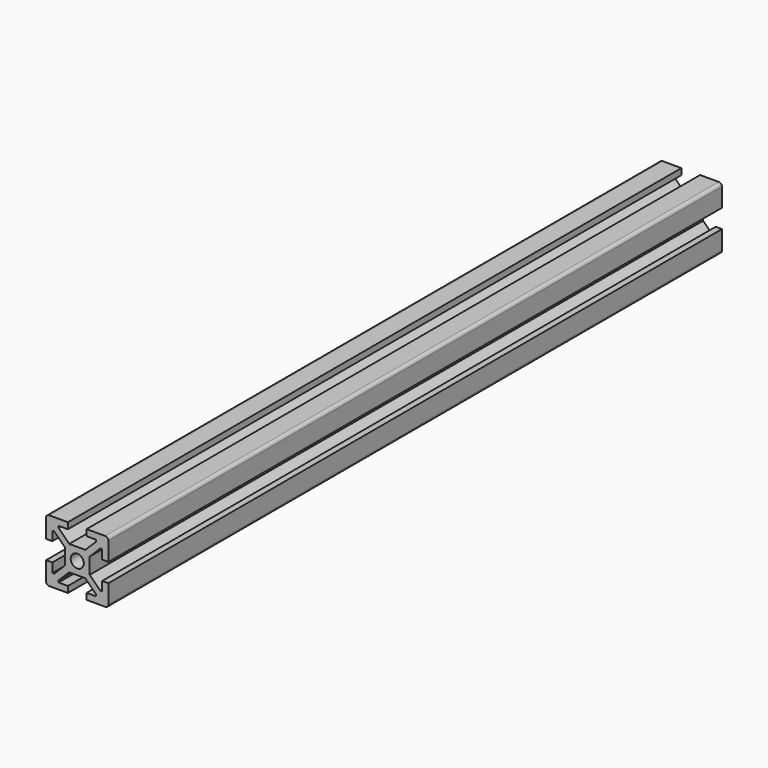
from build123d import *

# Parameters (mm, degrees)
SKETCH044_R          = 2.1
PAD023_DEPTH         = 123
SKETCH054_R          = 2.5
POCKET010_DEPTH      = 10.001
POCKET010_DEPTH_BACK = 10.001
SKETCH094_R          = 2.75
POCKET037_DEPTH      = 14.001
POCKET037_DEPTH_BACK = 6.001


with BuildPart() as part:
    # Sketch044 → Pad023 (new body, symmetric)
    with BuildSketch(Plane.XZ):
        with BuildLine():
            Line((3, 10), (3, 8))
            Line((3, 8), (6, 8))
            Line((6, 8), (6, 7.414214))
            Line((6, 7.414214), (2.585786, 4))
            Line((2.585786, 4), (-2.585786, 4))
            Line((-2.585786, 4), (-6, 7.414214))
            Line((-6, 7.414214), (-6, 8))
            Line((-6, 8), (-3, 8))
            Line((-3, 8), (-3, 10))
            Line((-8.999982, 10), (-3, 10))
            ThreePointArc((-8.999982, 10), (-9.707108, 9.707105), (-10, 8.999978))
            Line((-10, 8.999978), (-10, 3))
            Line((-10, 3), (-8, 3))
            Line((-8, 3), (-8, 6))
            Line((-8, 6), (-7.414214, 6))
            Line((-7.414214, 6), (-4, 2.585786))
            Line((-4, 2.585786), (-4, -2.585786))
            Line((-4, -2.585786), (-7.414214, -6))
            Line((-7.414214, -6), (-8, -6))
            Line((-8, -6), (-8, -3))
            Line((-8, -3), (-10, -3))
            Line((-10, -3), (-10, -9))
            ThreePointArc((-10, -9), (-9.707101, -9.707113), (-8.999982, -10))
            Line((-8.999982, -10), (-3, -10))
            Line((-3, -10), (-3, -8))
            Line((-3, -8), (-6, -8))
            Line((-6, -7.414214), (-6, -8))
            Line((-2.585786, -4), (-6, -7.414214))
            Line((-2.585786, -4), (2.585786, -4))
            Line((2.585786, -4), (6, -7.414214))
            Line((6, -7.414214), (6, -8))
            Line((6, -8), (3, -8))
            Line((3, -8), (3, -10))
            Line((8.999986, -10), (3, -10))
            ThreePointArc((8.999986, -10), (9.707102, -9.707112), (10, -9))
            Line((10, -9), (10, -3))
            Line((10, -3), (8, -3))
            Line((8, -3), (8, -6))
            Line((8, -6), (7.414214, -6))
            Line((7.414214, -6), (4, -2.585786))
            Line((4, -2.585786), (4, 2.585786))
            Line((4, 2.585786), (7.414214, 6))
            Line((7.414214, 6), (8, 6))
            Line((8, 6), (8, 3))
            Line((8, 3), (10, 3))
            Line((10, 8.999978), (10, 3))
            ThreePointArc((10, 8.999978), (9.70711, 9.707104), (8.999986, 10))
            Line((8.999986, 10), (3, 10))
        make_face()
        Circle(SKETCH044_R, mode=Mode.SUBTRACT)
    extrude(amount=PAD023_DEPTH, both=True)

    # Sketch054 → Pocket010 (cut, two sides)
    with BuildSketch(Plane.YZ) as pocket010_sk:
        with Locations((-64, 0)):
            Circle(SKETCH054_R)
    extrude(amount=-POCKET010_DEPTH, mode=Mode.SUBTRACT)
    extrude(pocket010_sk.sketch, amount=POCKET010_DEPTH_BACK, mode=Mode.SUBTRACT)

    # Sketch094 (on Face7 of Pad023) → Pocket037 (cut, two sides)
    with BuildSketch(Plane(origin=(0, 0, 4), x_dir=(-1, 0, 0), z_dir=(0, 0, 1))) as pocket037_sk:
        with Locations((0, 113)):
            Circle(SKETCH094_R)
        with Locations((0, -113)):
            Circle(SKETCH094_R)
    extrude(amount=-POCKET037_DEPTH, mode=Mode.SUBTRACT)
    extrude(pocket037_sk.sketch, amount=POCKET037_DEPTH_BACK, mode=Mode.SUBTRACT)


with BuildPart() as part_1:
    # Body024 placement: moved
    add(part.part.moved(Location((113, 0, 0))))


with BuildPart() as part_2:
    # Clone placement: moved
    add(part_1.part.moved(Location((-113, 0, 0))))


with BuildPart() as part_3:
    # Body026 placement: moved
    add(part_2.part.moved(Location((-113, 0, 0))))


solid = part_3.part
